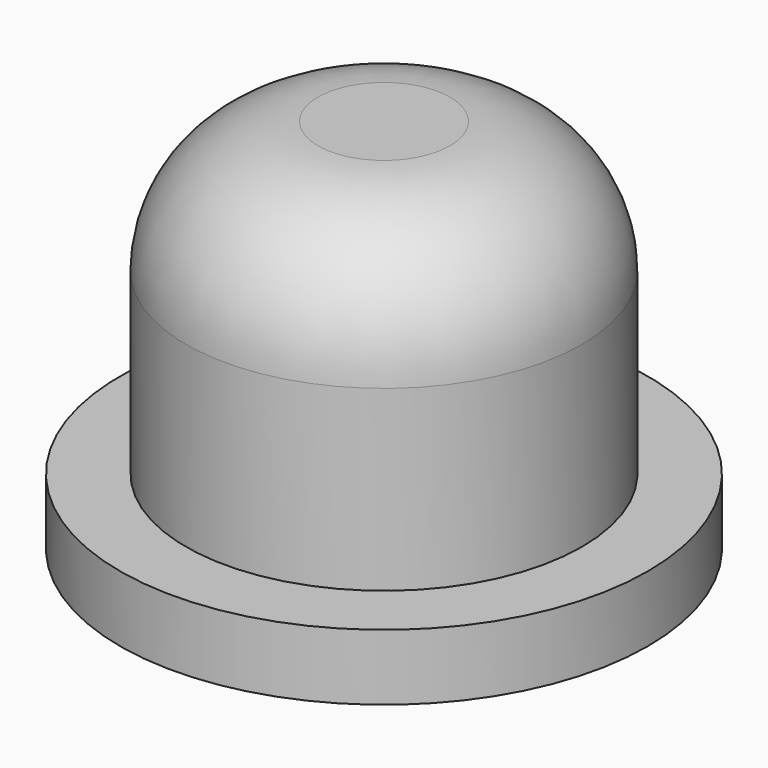
from build123d import *

# Parameters (mm, degrees)
F0_R     = 4
F0_R_2   = 3
F1_DEPTH = 1
F0_R_3   = 1.875
F2_DEPTH = 3.7
F3_R     = 3
F3_R_2   = 1.875
F4_DEPTH = 2
F5_R     = 2


with BuildPart() as f1:
    # F0 (on Top) → F1 (new body)
    with BuildSketch(Plane.XY):
        with Locations((-0.725, 0)):
            Circle(F0_R)
        with Locations((-0.725, 0)):
            Circle(F0_R_2, mode=Mode.SUBTRACT)
    extrude(amount=F1_DEPTH)

    # F0 (on Top) → F2 (join)
    with BuildSketch(Plane.XY):
        with Locations((-0.725, 0)):
            Circle(F0_R_2)
        Circle(F0_R_3, mode=Mode.SUBTRACT)
    extrude(amount=F2_DEPTH)

    # F3 (on face) → F4 (join)
    with BuildSketch(Plane.XY.offset(3.7)):
        with Locations((-0.725, 0)):
            Circle(F3_R)
        Circle(F3_R_2, mode=Mode.SUBTRACT)
        Circle(F3_R_2)
    extrude(amount=F4_DEPTH)

    # F5
    f5_edges = [f1.edges().sort_by_distance(p)[0] for p in [
        (-3.725, 0, 5.7),
    ]]
    fillet(f5_edges, radius=F5_R)


solid = f1.part
